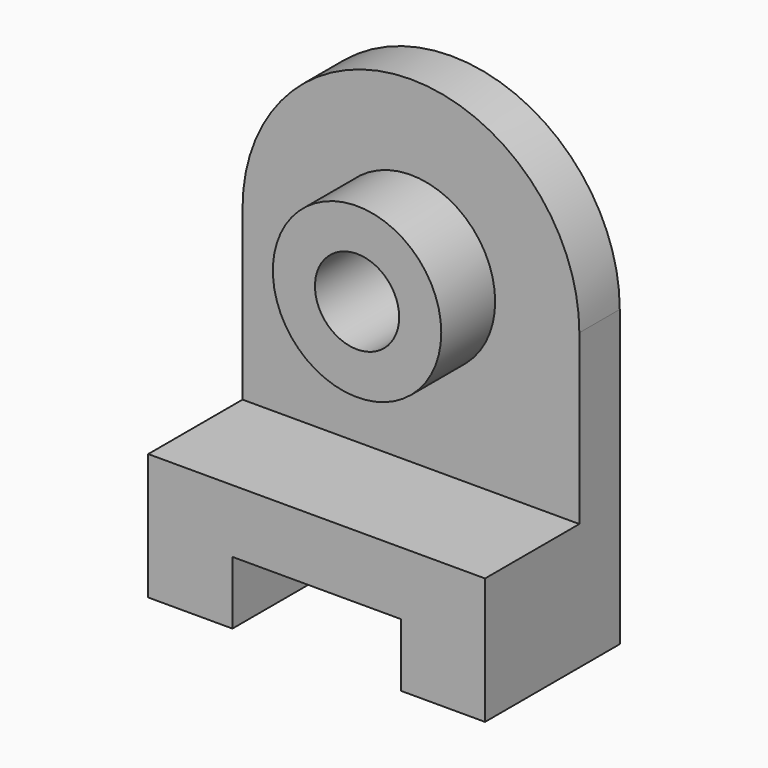
from build123d import *

# Parameters (mm, degrees)
F0_R     = 20
F0_R_2   = 10
F1_DEPTH = 28
F2_DEPTH = 40
F3_DEPTH = 12


with BuildPart() as f1:
    # F0 (on Front) → F1 (new body)
    with BuildSketch(Plane.XZ):
        Circle(F0_R)
        Circle(F0_R_2, mode=Mode.SUBTRACT)
    extrude(amount=F1_DEPTH)



with BuildPart() as f2:
    # F0 (on Front) → F2 (new body)
    with BuildSketch(Plane.XZ):
        Polygon((40, -40), (0, -40), (-40, -40), (-40, -70), (-20, -70), (-20, -55), (20, -55), (20, -70), (40, -70), align=None)
    extrude(amount=F2_DEPTH)


with BuildPart() as f1_1:
    add(f1.part)

    add(f2.part)  # F3 merges F2
    # F0 (on Front) → F3 (join)
    with BuildSketch(Plane.XZ):
        with BuildLine():
            ThreePointArc((0, -40), (28.2842712475, -28.2842712475), (40, 0))
            ThreePointArc((40, 0), (0, 40), (-40, 0))
            ThreePointArc((-40, 0), (-28.2842712475, -28.2842712475), (0, -40))
        make_face()
        Circle(F0_R, mode=Mode.SUBTRACT)
        with BuildLine():
            ThreePointArc((0, -40), (-28.2842712475, -28.2842712475), (-40, 0))
            Line((-40, 0), (-40, -40))
            Line((-40, -40), (0, -40))
        make_face()
        with BuildLine():
            Line((40, -40), (40, 0))
            ThreePointArc((40, 0), (28.2842712475, -28.2842712475), (0, -40))
            Line((0, -40), (40, -40))
        make_face()
    extrude(amount=F3_DEPTH)


solid = f1_1.part
